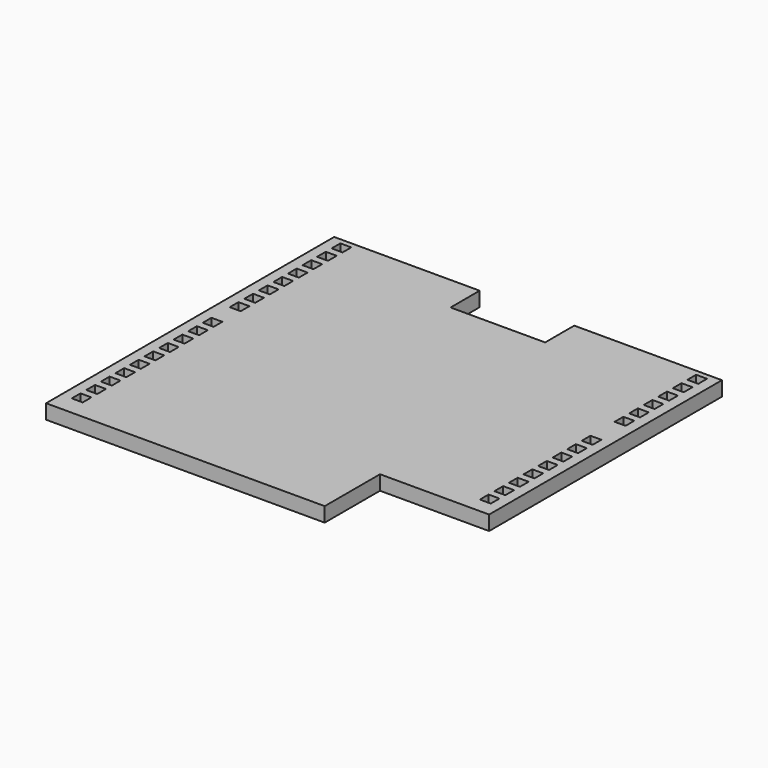
from build123d import *

# Parameters (mm, degrees)
F0_W     = 1.5
F0_H     = 1.5
F1_DEPTH = 2


with BuildPart() as f1:
    # F0 (on Top) → F1 (new body)
    with BuildSketch(Plane.XY):
        Polygon((26.65, -10.914245), (26.65, 29.085755), (25.45, 29.085755), (23.45, 29.085755), (6.35, 29.085755), (6.35, 24.085755), (-6.65, 24.085755), (-6.65, 29.085755), (-23.45, 29.085755), (-25.45, 29.085755), (-26.65, 29.085755), (-26.65, -20.414245), (11.65, -20.414245), (11.65, -10.914245), align=None)
        with Locations((-24.45, -17.064245)):
            Rectangle(F0_W, F0_H, mode=Mode.SUBTRACT)
        with Locations((-24.45, -14.564245)):
            Rectangle(F0_W, F0_H, mode=Mode.SUBTRACT)
        with Locations((-24.45, -12.064245)):
            Rectangle(F0_W, F0_H, mode=Mode.SUBTRACT)
        with Locations((-24.45, -9.564245)):
            Rectangle(F0_W, F0_H, mode=Mode.SUBTRACT)
        with Locations((-24.45, -7.064245)):
            Rectangle(F0_W, F0_H, mode=Mode.SUBTRACT)
        with Locations((-24.45, -4.564245)):
            Rectangle(F0_W, F0_H, mode=Mode.SUBTRACT)
        with Locations((-24.45, -2.064245)):
            Rectangle(F0_W, F0_H, mode=Mode.SUBTRACT)
        with Locations((-24.45, 0.435755)):
            Rectangle(F0_W, F0_H, mode=Mode.SUBTRACT)
        with Locations((-24.45, 2.935755)):
            Rectangle(F0_W, F0_H, mode=Mode.SUBTRACT)
        with Locations((24.45, -8.064245)):
            Rectangle(F0_W, F0_H, mode=Mode.SUBTRACT)
        with Locations((24.45, -5.564245)):
            Rectangle(F0_W, F0_H, mode=Mode.SUBTRACT)
        with Locations((24.45, -3.064245)):
            Rectangle(F0_W, F0_H, mode=Mode.SUBTRACT)
        with Locations((24.45, -0.564245)):
            Rectangle(F0_W, F0_H, mode=Mode.SUBTRACT)
        with Locations((24.45, 1.935755)):
            Rectangle(F0_W, F0_H, mode=Mode.SUBTRACT)
        with Locations((-24.45, 5.435755)):
            Rectangle(F0_W, F0_H, mode=Mode.SUBTRACT)
        with Locations((-24.45, 10.085755)):
            Rectangle(F0_W, F0_H, mode=Mode.SUBTRACT)
        with Locations((-24.45, 12.585755)):
            Rectangle(F0_W, F0_H, mode=Mode.SUBTRACT)
        with Locations((-24.45, 15.085755)):
            Rectangle(F0_W, F0_H, mode=Mode.SUBTRACT)
        with Locations((-24.45, 17.585755)):
            Rectangle(F0_W, F0_H, mode=Mode.SUBTRACT)
        with Locations((-24.45, 20.085755)):
            Rectangle(F0_W, F0_H, mode=Mode.SUBTRACT)
        with Locations((-24.45, 22.585755)):
            Rectangle(F0_W, F0_H, mode=Mode.SUBTRACT)
        with Locations((-24.45, 25.085755)):
            Rectangle(F0_W, F0_H, mode=Mode.SUBTRACT)
        with Locations((-24.45, 27.585755)):
            Rectangle(F0_W, F0_H, mode=Mode.SUBTRACT)
        with Locations((24.45, 4.435755)):
            Rectangle(F0_W, F0_H, mode=Mode.SUBTRACT)
        with Locations((24.45, 6.935755)):
            Rectangle(F0_W, F0_H, mode=Mode.SUBTRACT)
        with Locations((24.45, 9.435755)):
            Rectangle(F0_W, F0_H, mode=Mode.SUBTRACT)
        with Locations((24.45, 15.085755)):
            Rectangle(F0_W, F0_H, mode=Mode.SUBTRACT)
        with Locations((24.45, 17.585755)):
            Rectangle(F0_W, F0_H, mode=Mode.SUBTRACT)
        with Locations((24.45, 20.085755)):
            Rectangle(F0_W, F0_H, mode=Mode.SUBTRACT)
        with Locations((24.45, 22.585755)):
            Rectangle(F0_W, F0_H, mode=Mode.SUBTRACT)
        with Locations((24.45, 25.085755)):
            Rectangle(F0_W, F0_H, mode=Mode.SUBTRACT)
        Polygon((25.2, 28.085755), (25.2, 26.835755), (23.7, 26.835755), (23.7, 28.335755), (25.2, 28.335755), align=None, mode=Mode.SUBTRACT)
    extrude(amount=F1_DEPTH)


solid = f1.part
